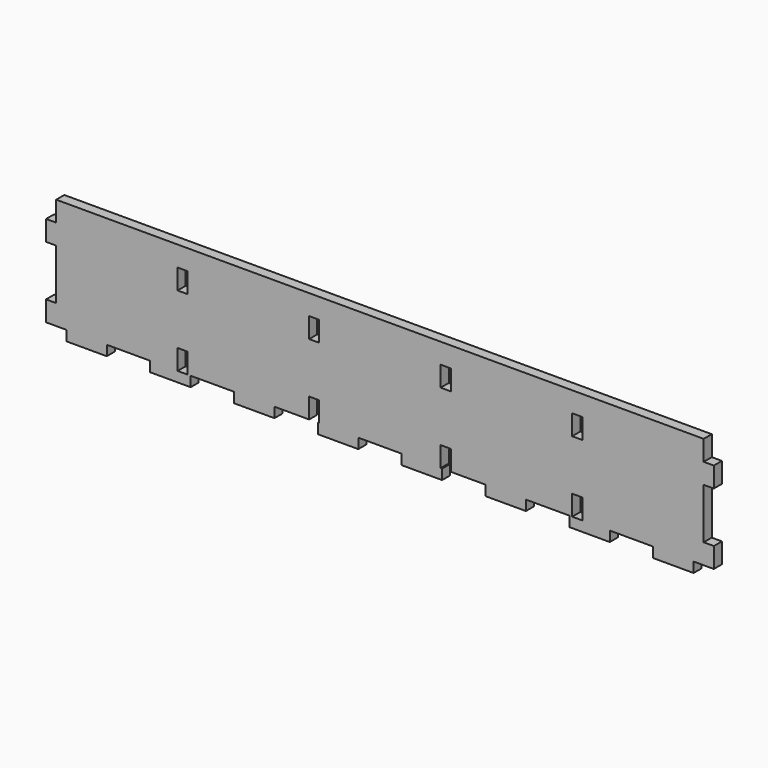
from build123d import *

# Parameters (mm, degrees)
F0_W     = 419.1
F0_H     = 76.2
F1_DEPTH = 6.35
F2_W     = 6.35
F2_H     = 6.35
F2_H_2   = 12.7
F2_H_3   = 31.75
F3_DEPTH = 6.35
F4_W     = 27.214286
F4_H     = 6.35
F4_W_2   = 27.214285
F4_W_3   = 6.35
F5_DEPTH = 6.351
F6_W     = 6.35
F6_H     = 12.7
F7_DEPTH = 6.351


with BuildPart() as f1:
    # F0 (on Front) → F1 (new body)
    with BuildSketch(Plane.XZ):
        with Locations((209.55, 38.1)):
            Rectangle(F0_W, F0_H)
    extrude(amount=F1_DEPTH)

    # F2 (on face) → F3 (cut, through all)
    with BuildSketch(Plane.XZ.offset(6.35)):
        with Locations((3.175, 3.175)):
            Rectangle(F2_W, F2_H)
        with Locations((3.175, 69.85)):
            Rectangle(F2_W, F2_H_2)
        with Locations((3.175, 34.925)):
            Rectangle(F2_W, F2_H_3)
        with Locations((415.925, 3.175)):
            Rectangle(F2_W, F2_H)
        with Locations((415.925, 34.925)):
            Rectangle(F2_W, F2_H_3)
        with Locations((415.925, 69.85)):
            Rectangle(F2_W, F2_H_2)
    extrude(amount=-F3_DEPTH, mode=Mode.SUBTRACT)

    # F4 (on face) → F5 (cut, through all)
    with BuildSketch(Plane.XZ.offset(6.35)):
        with Locations((51.707143, 3.175)):
            Rectangle(F4_W, F4_H)
        with Locations((104.321428, 3.175)):
            Rectangle(F4_W_2, F4_H)
        with Locations((156.935714, 3.175)):
            Rectangle(F4_W, F4_H)
        with Locations((209.55, 3.175)):
            Rectangle(F4_W, F4_H)
        with Locations((262.164286, 3.175)):
            Rectangle(F4_W, F4_H)
        with Locations((314.778571, 3.175)):
            Rectangle(F4_W_2, F4_H)
        with Locations((367.392857, 3.175)):
            Rectangle(F4_W, F4_H)
        with Locations((9.525, 3.175)):
            Rectangle(F4_W_3, F4_H)
        with Locations((409.575, 3.175)):
            Rectangle(F4_W_3, F4_H)
    extrude(amount=-F5_DEPTH, mode=Mode.SUBTRACT)

    # F6 (on face) → F7 (cut, through all)
    with BuildSketch(Plane.XZ.offset(6.35)):
        with Locations((85.725, 12.7)):
            Rectangle(F6_W, F6_H)
        with Locations((85.725, 57.15)):
            Rectangle(F6_W, F6_H)
        with Locations((333.375, 57.15)):
            Rectangle(F6_W, F6_H)
        with Locations((333.375, 12.7)):
            Rectangle(F6_W, F6_H)
        with Locations((168.275, 57.15)):
            Rectangle(F6_W, F6_H)
        with Locations((168.275, 12.7)):
            Rectangle(F6_W, F6_H)
        with Locations((250.825, 57.15)):
            Rectangle(F6_W, F6_H)
        with Locations((250.825, 12.7)):
            Rectangle(F6_W, F6_H)
    extrude(amount=-F7_DEPTH, mode=Mode.SUBTRACT)


solid = f1.part
